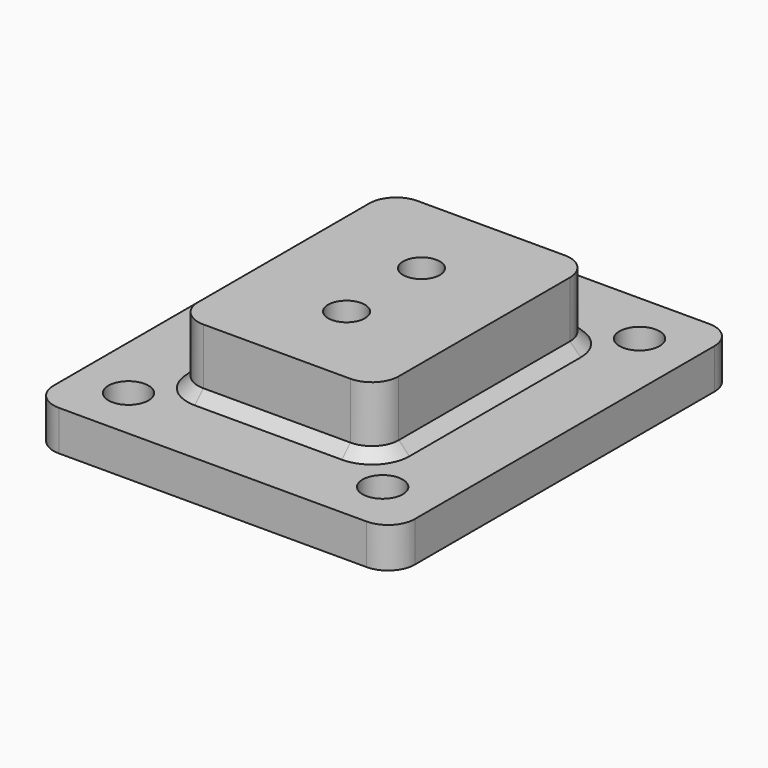
from build123d import *

# Parameters (mm, degrees)
F0_R     = 4.365625
F0_R_2   = 4.7625
F1_DEPTH = 9.525
F2_DEPTH = 25.4
F3_SIZE  = 2.54
F4_DEPTH = 6.35


with BuildPart() as f1:
    # F0 (on Top) → F1 (new body)
    with BuildSketch(Plane.XY):
        Polygon((-4.124446, -18.25625), (4.124446, -18.25625), (8.248892, -11.1125), (4.124446, -3.96875), (-4.124446, -3.96875), (-8.248892, -11.1125), align=None)
        with Locations((0, -11.1125)):
            Circle(F0_R, mode=Mode.SUBTRACT)
        with BuildLine():
            Line((17.4625, 31.75), (-17.4625, 31.75))
            ThreePointArc((-17.4625, 31.75), (-21.952628, 29.890128), (-23.8125, 25.4))
            Line((-23.8125, 25.4), (-23.8125, -25.4))
            ThreePointArc((-23.8125, -25.4), (-21.952628, -29.890128), (-17.4625, -31.75))
            Line((-17.4625, -31.75), (17.4625, -31.75))
            ThreePointArc((17.4625, -31.75), (21.952628, -29.890128), (23.8125, -25.4))
            Line((23.8125, -25.4), (23.8125, 25.4))
            ThreePointArc((23.8125, 25.4), (21.952628, 29.890128), (17.4625, 31.75))
        make_face()
        Polygon((8.248892, -11.1125), (4.124446, -18.25625), (-4.124446, -18.25625), (-8.248892, -11.1125), (-4.124446, -3.96875), (4.124446, -3.96875), align=None, mode=Mode.SUBTRACT)
        Polygon((-8.248892, 11.1125), (-4.124446, 18.25625), (4.124446, 18.25625), (8.248892, 11.1125), (4.124446, 3.96875), (-4.124446, 3.96875), align=None, mode=Mode.SUBTRACT)
        with BuildLine():
            Line((36.5125, 50.8), (-36.5125, 50.8))
            ThreePointArc((-36.5125, 50.8), (-41.002628, 48.940128), (-42.8625, 44.45))
            Line((-42.8625, 44.45), (-42.8625, -44.45))
            ThreePointArc((-42.8625, -44.45), (-41.002628, -48.940128), (-36.5125, -50.8))
            Line((-36.5125, -50.8), (36.5125, -50.8))
            ThreePointArc((36.5125, -50.8), (41.002628, -48.940128), (42.8625, -44.45))
            Line((42.8625, -44.45), (42.8625, 44.45))
            ThreePointArc((42.8625, 44.45), (41.002628, 48.940128), (36.5125, 50.8))
        make_face()
        with Locations((-30.1625, -38.1)):
            Circle(F0_R_2, mode=Mode.SUBTRACT)
        with Locations((30.1625, -38.1)):
            Circle(F0_R_2, mode=Mode.SUBTRACT)
        with BuildLine():
            ThreePointArc((-23.8125, 25.4), (-21.952628, 29.890128), (-17.4625, 31.75))
            Line((-17.4625, 31.75), (17.4625, 31.75))
            ThreePointArc((17.4625, 31.75), (21.952628, 29.890128), (23.8125, 25.4))
            Line((23.8125, 25.4), (23.8125, -25.4))
            ThreePointArc((23.8125, -25.4), (21.952628, -29.890128), (17.4625, -31.75))
            Line((17.4625, -31.75), (-17.4625, -31.75))
            ThreePointArc((-17.4625, -31.75), (-21.952628, -29.890128), (-23.8125, -25.4))
            Line((-23.8125, -25.4), (-23.8125, 25.4))
        make_face(mode=Mode.SUBTRACT)
        with Locations((-30.1625, 38.1)):
            Circle(F0_R_2, mode=Mode.SUBTRACT)
        with Locations((30.1625, 38.1)):
            Circle(F0_R_2, mode=Mode.SUBTRACT)
        Polygon((4.124446, 18.25625), (-4.124446, 18.25625), (-8.248892, 11.1125), (-4.124446, 3.96875), (4.124446, 3.96875), (8.248892, 11.1125), align=None)
        with Locations((0, 11.1125)):
            Circle(F0_R, mode=Mode.SUBTRACT)
    extrude(amount=F1_DEPTH)

    # F0 (on Top) → F2 (join)
    with BuildSketch(Plane.XY):
        with BuildLine():
            Line((17.4625, 31.75), (-17.4625, 31.75))
            ThreePointArc((-17.4625, 31.75), (-21.952628, 29.890128), (-23.8125, 25.4))
            Line((-23.8125, 25.4), (-23.8125, -25.4))
            ThreePointArc((-23.8125, -25.4), (-21.952628, -29.890128), (-17.4625, -31.75))
            Line((-17.4625, -31.75), (17.4625, -31.75))
            ThreePointArc((17.4625, -31.75), (21.952628, -29.890128), (23.8125, -25.4))
            Line((23.8125, -25.4), (23.8125, 25.4))
            ThreePointArc((23.8125, 25.4), (21.952628, 29.890128), (17.4625, 31.75))
        make_face()
        Polygon((8.248892, -11.1125), (4.124446, -18.25625), (-4.124446, -18.25625), (-8.248892, -11.1125), (-4.124446, -3.96875), (4.124446, -3.96875), align=None, mode=Mode.SUBTRACT)
        Polygon((-8.248892, 11.1125), (-4.124446, 18.25625), (4.124446, 18.25625), (8.248892, 11.1125), (4.124446, 3.96875), (-4.124446, 3.96875), align=None, mode=Mode.SUBTRACT)
        Polygon((4.124446, 18.25625), (-4.124446, 18.25625), (-8.248892, 11.1125), (-4.124446, 3.96875), (4.124446, 3.96875), (8.248892, 11.1125), align=None)
        with Locations((0, 11.1125)):
            Circle(F0_R, mode=Mode.SUBTRACT)
        Polygon((-4.124446, -18.25625), (4.124446, -18.25625), (8.248892, -11.1125), (4.124446, -3.96875), (-4.124446, -3.96875), (-8.248892, -11.1125), align=None)
        with Locations((0, -11.1125)):
            Circle(F0_R, mode=Mode.SUBTRACT)
    extrude(amount=F2_DEPTH)

    # F3
    f3_edges = [f1.edges().sort_by_distance(p)[0] for p in [
        (23.8125, 0, 9.525),
    ]]
    chamfer(f3_edges, length=F3_SIZE)

    # F0 (on Top) → F4 (cut)
    with BuildSketch(Plane.XY):
        Polygon((4.124446, 18.25625), (-4.124446, 18.25625), (-8.248892, 11.1125), (-4.124446, 3.96875), (4.124446, 3.96875), (8.248892, 11.1125), align=None)
        with Locations((0, 11.1125)):
            Circle(F0_R, mode=Mode.SUBTRACT)
        Polygon((-4.124446, -18.25625), (4.124446, -18.25625), (8.248892, -11.1125), (4.124446, -3.96875), (-4.124446, -3.96875), (-8.248892, -11.1125), align=None)
        with Locations((0, -11.1125)):
            Circle(F0_R, mode=Mode.SUBTRACT)
    extrude(amount=F4_DEPTH, mode=Mode.SUBTRACT)


solid = f1.part
